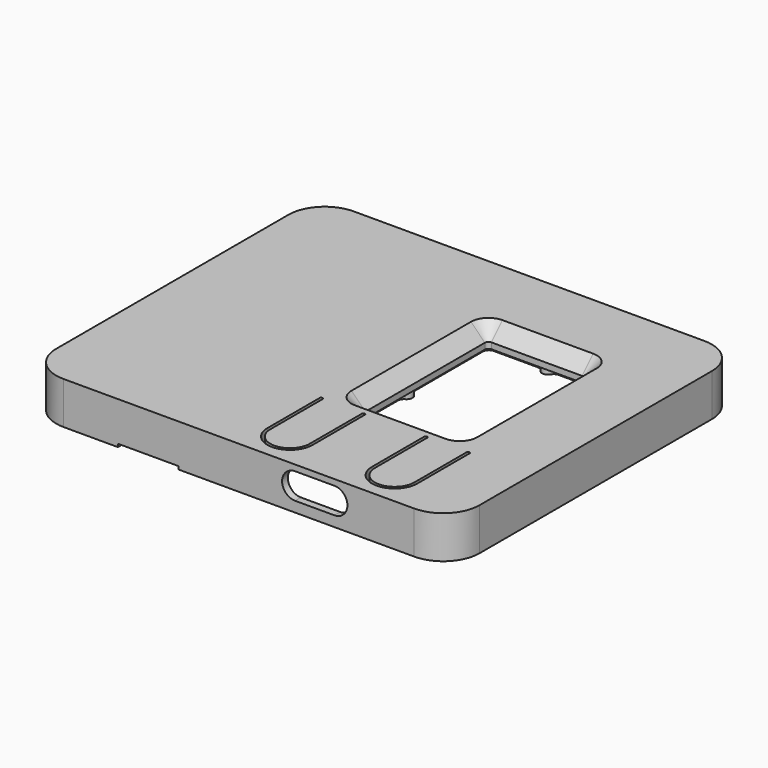
from build123d import *

# Parameters (mm, degrees)
PAD014_DEPTH           = 6
POCKET006_DEPTH        = 6.001
SKETCH032_W            = 80
SKETCH032_H            = 11
POCKET008_DEPTH        = 60.001
POCKET008_DEPTH_BACK   = 0.001
POCKET013_DEPTH        = 3.701
POCKET012_DEPTH        = 12
SKETCH043_W            = 23
SKETCH043_H            = 15
POCKET017_DEPTH        = 5.201
POCKET014_DEPTH        = 2.001
POCKET007_DEPTH        = 6.001
POCKET015_DEPTH        = 3.75
LINEARPATTERN003_COUNT = 2
LINEARPATTERN003_PITCH = 17.3
POCKET016_DEPTH        = 5.001
POCKET018_DEPTH        = 3.001
POCKET019_DEPTH        = 3.001
SKETCH059_W            = 10
SKETCH059_H            = 5
POCKET027_DEPTH        = 5


with BuildPart() as part:
    # Sketch025 → Pad014 (new body, symmetric)
    with BuildSketch(Plane.XY):
        with BuildLine():
            Line((29, 60), (-29, 60))
            ThreePointArc((-29, 60), (-33.242641, 58.242641), (-35, 54))
            Line((-35, 54), (-35, 6))
            ThreePointArc((-35, 6), (-33.242641, 1.757359), (-29, 0))
            Line((-29, 0), (29, 0))
            ThreePointArc((29, 0), (33.242641, 1.757359), (35, 6))
            Line((35, 6), (35, 54))
            ThreePointArc((35, 54), (33.242641, 58.242641), (29, 60))
        make_face()
    extrude(amount=PAD014_DEPTH, both=True)

    # Sketch030 → Pocket006 (cut, through all)
    with BuildSketch(Plane.XY):
        with BuildLine():
            Line((5, 45.95), (20, 45.95))
            ThreePointArc((20.6, 45.35), (20.424264, 45.774264), (20, 45.95))
            Line((20.6, 45.35), (20.6, 20.65))
            ThreePointArc((20, 20.05), (20.424264, 20.225736), (20.6, 20.65))
            Line((20, 20.05), (5, 20.05))
            ThreePointArc((4.4, 20.65), (4.575736, 20.225736), (5, 20.05))
            Line((4.4, 20.65), (4.4, 45.35))
            ThreePointArc((5, 45.95), (4.575736, 45.774264), (4.4, 45.35))
        make_face()
    extrude(amount=POCKET006_DEPTH, mode=Mode.SUBTRACT)

    # Sketch032 → Pocket008 (cut, two sides)
    with BuildSketch(Plane.XZ) as pocket008_sk:
        with Locations((0, -6.5)):
            Rectangle(SKETCH032_W, SKETCH032_H)
    extrude(amount=-POCKET008_DEPTH, mode=Mode.SUBTRACT)
    extrude(pocket008_sk.sketch, amount=POCKET008_DEPTH_BACK, mode=Mode.SUBTRACT)

    # SubtractivePipe001: sweep along a path in Sketch025
    with BuildLine(Plane.XY) as subtractivepipe001_path:
        Line((29, 60), (-29, 60))
        ThreePointArc((-29, 60), (-33.242641, 58.242641), (-35, 54))
        Line((-35, 54), (-35, 6))
        ThreePointArc((-35, 6), (-33.242641, 1.757359), (-29, 0))
        Line((-29, 0), (29, 0))
        ThreePointArc((29, 0), (33.242641, 1.757359), (35, 6))
        Line((35, 6), (35, 54))
        ThreePointArc((35, 54), (33.242641, 58.242641), (29, 60))
    # Sketch060 → SubtractivePipe001 (sweep, cut)
    with BuildSketch(Plane.XZ.offset(-30)):
        Polygon((34.89056, -2), (31.10944, -2), (33, 0.7), align=None)
    sweep(path=subtractivepipe001_path.line, mode=Mode.SUBTRACT)

    # Sketch038 → Pocket013 (cut, through all)
    with BuildSketch(Plane.XY.offset(2.7)):
        with BuildLine():
            ThreePointArc((11.633975, 47.8), (12.5, 47.3), (13.366025, 47.8))
            ThreePointArc((14.232051, 48.3), (13.732051, 48.166025), (13.366025, 47.8))
            Line((14.232051, 48.3), (21.5, 48.3))
            ThreePointArc((22, 46.433975), (22.465926, 47.558819), (21.5, 48.3))
            ThreePointArc((22, 46.433975), (21.5, 45.567949), (22, 44.701924))
            ThreePointArc((22.5, 43.835898), (22.366025, 44.335898), (22, 44.701924))
            Line((22.5, 19.164102), (22.5, 43.835898))
            ThreePointArc((22, 18.298076), (22.366025, 18.664102), (22.5, 19.164102))
            ThreePointArc((22, 18.298076), (21.5, 17.432051), (22, 16.566025))
            ThreePointArc((21.5, 14.7), (22.465926, 15.441181), (22, 16.566025))
            Line((14.232051, 14.7), (21.5, 14.7))
            ThreePointArc((13.366025, 15.2), (13.732051, 14.833975), (14.232051, 14.7))
            ThreePointArc((13.366025, 15.2), (12.5, 15.7), (11.633975, 15.2))
            ThreePointArc((10.767949, 14.7), (11.267949, 14.833975), (11.633975, 15.2))
            Line((3.5, 14.7), (10.767949, 14.7))
            ThreePointArc((2.5, 15.7), (2.792893, 14.992893), (3.5, 14.7))
            Line((2.5, 29.767949), (2.5, 15.7))
            ThreePointArc((3, 30.633975), (2.633975, 30.267949), (2.5, 29.767949))
            ThreePointArc((3, 30.633975), (3.5, 31.5), (3, 32.366025))
            ThreePointArc((2.5, 33.232051), (2.633975, 32.732051), (3, 32.366025))
            Line((2.5, 47.3), (2.5, 33.232051))
            ThreePointArc((3.5, 48.3), (2.792893, 48.007107), (2.5, 47.3))
            Line((3.5, 48.3), (10.767949, 48.3))
            ThreePointArc((11.633975, 47.8), (11.267949, 48.166025), (10.767949, 48.3))
        make_face()
    extrude(amount=-POCKET013_DEPTH, mode=Mode.SUBTRACT)

    # SubtractivePipe: sweep along a path in Sketch030
    with BuildLine(Plane.XY) as subtractivepipe_path:
        Line((5, 45.95), (20, 45.95))
        ThreePointArc((20, 45.95), (20.424264, 45.774264), (20.6, 45.35))
        Line((20.6, 45.35), (20.6, 20.65))
        ThreePointArc((20.6, 20.65), (20.424264, 20.225736), (20, 20.05))
        Line((20, 20.05), (5, 20.05))
        ThreePointArc((5, 20.05), (4.575736, 20.225736), (4.4, 20.65))
        Line((4.4, 20.65), (4.4, 45.35))
        ThreePointArc((4.4, 45.35), (4.575736, 45.774264), (5, 45.95))
    # Sketch039 → SubtractivePipe (sweep, cut)
    with BuildSketch(Plane.XZ.offset(-33)):
        Polygon((20.6, 3.7), (20.6, 6.7), (23.6, 6.7), align=None)
    sweep(path=subtractivepipe_path.line, mode=Mode.SUBTRACT)

    # Sketch037 → Pocket012 (cut)
    with BuildSketch(Plane.XZ):
        with BuildLine():
            ThreePointArc((9.3, 5.02), (7.15, 2.87), (9.3, 0.72))
            Line((9.3, 0.72), (15.8, 0.72))
            ThreePointArc((15.8, 0.72), (17.95, 2.87), (15.8, 5.02))
            Line((9.3, 5.02), (15.8, 5.02))
        make_face()
    extrude(amount=-POCKET012_DEPTH, mode=Mode.SUBTRACT)

    # Sketch043 → Pocket017 (cut, through all)
    with BuildSketch(Plane.XY.offset(4.2)):
        with Locations((12.5, 8.7)):
            Rectangle(SKETCH043_W, SKETCH043_H)
    extrude(amount=-POCKET017_DEPTH, mode=Mode.SUBTRACT)

    # Sketch040 → Pocket014 (cut, through all)
    with BuildSketch(Plane.XY.offset(1)):
        with BuildLine():
            Line((0, 54.3), (25.1, 54.3))
            ThreePointArc((25.9, 53.5), (25.665685, 54.065685), (25.1, 54.3))
            Line((25.9, 53.5), (25.9, 2))
            ThreePointArc((25.1, 1.2), (25.665685, 1.434315), (25.9, 2))
            Line((25.1, 1.2), (0, 1.2))
            ThreePointArc((-0.8, 2), (-0.565685, 1.434315), (0, 1.2))
            Line((-0.8, 2), (-0.8, 53.5))
            ThreePointArc((0, 54.3), (-0.565685, 54.065685), (-0.8, 53.5))
        make_face()
    extrude(amount=-POCKET014_DEPTH, mode=Mode.SUBTRACT)

    # Sketch031 → Pocket007 (cut, through all)
    with BuildSketch(Plane.XY):
        with BuildLine():
            ThreePointArc((0.65, 16.5), (0.400003, 16.75), (0.15, 16.500005))
            Line((0.15, 16.500005), (0.15, 5.7))
            ThreePointArc((0.15, 5.7), (3.9, 1.95), (7.65, 5.7))
            Line((7.65, 16.5), (7.65, 5.7))
            ThreePointArc((7.65, 16.5), (7.4, 16.75), (7.15, 16.5))
            Line((7.15, 5.7), (7.15, 16.5))
            ThreePointArc((0.65, 5.7), (3.9, 2.45), (7.15, 5.7))
            Line((0.65, 5.7), (0.65, 16.5))
        make_face()
    pocket007 = extrude(amount=POCKET007_DEPTH, mode=Mode.SUBTRACT)

    # Sketch041 → Pocket015 (cut, symmetric)
    with BuildSketch(Plane.YZ.offset(3.9)):
        with BuildLine():
            Line((1.95, 4.2), (13.91697, 4.2))
            ThreePointArc((13.91697, 4.2), (14.464692, 4.36334), (14.833485, 4.8))
            ThreePointArc((16.75, 4.4), (15.95431, 5.378906), (14.833485, 4.8))
            Line((16.75, 4.4), (16.75, 0))
            Line((16.75, 0), (1.95, 0))
            Line((1.95, 0), (1.95, 4.2))
        make_face()
    pocket015 = extrude(amount=POCKET015_DEPTH, both=True, mode=Mode.SUBTRACT)

    # LinearPattern003: Pocket007, Pocket015 ×2
    with Locations(*[(i * LINEARPATTERN003_PITCH, 0, 0) for i in range(1, LINEARPATTERN003_COUNT)]):
        add(pocket007, mode=Mode.SUBTRACT)
        add(pocket015, mode=Mode.SUBTRACT)

    # Sketch042 → Pocket016 (cut, through all)
    with BuildSketch(Plane.XY.offset(4)):
        with BuildLine():
            ThreePointArc((27, 15.35), (24, 18.35), (21, 15.35))
            Line((21, 15.35), (21, 11.85))
            ThreePointArc((21, 11.85), (24, 8.85), (27, 11.85))
            Line((27, 15.35), (27, 11.85))
        make_face()
    extrude(amount=-POCKET016_DEPTH, mode=Mode.SUBTRACT)

    # Sketch044 → Groove (revolve, cut)
    with BuildSketch(Plane.XZ.offset(-5)):
        Polygon((30, 4.5), (30.4, 4.5), (31.8, -5), (32.8, -6), (30, -6), align=None)
    revolve(axis=Axis((30, 5, 4.5), (0, 0, 1)), mode=Mode.SUBTRACT)

    # Sketch045 → Groove001 (revolve, cut)
    with BuildSketch(Plane.XZ.offset(-55)):
        Polygon((-30, 4.5), (-29.6, 4.5), (-28.2, -5), (-27.2, -6), (-30, -6), align=None)
    revolve(axis=Axis((-30, 55, 4.5), (0, 0, 1)), mode=Mode.SUBTRACT)

    # Sketch048 → Pocket018 (cut, through all)
    with BuildSketch(Plane(origin=(0, -6, 2), x_dir=(1, 0, 0), z_dir=(0, 0, 1))):
        with BuildLine():
            Line((-24.5, 63.75), (-2.5, 63.75))
            ThreePointArc((-1.5, 62.75), (-1.792893, 63.457107), (-2.5, 63.75))
            Line((-1.5, 62.75), (-1.5, 45.25))
            ThreePointArc((-2.5, 44.25), (-1.792893, 44.542893), (-1.5, 45.25))
            Line((-2.5, 44.25), (-24.5, 44.25))
            ThreePointArc((-25.5, 45.25), (-25.207107, 44.542893), (-24.5, 44.25))
            Line((-25.5, 45.25), (-25.5, 62.75))
            ThreePointArc((-24.5, 63.75), (-25.207107, 63.457107), (-25.5, 62.75))
        make_face()
    extrude(amount=-POCKET018_DEPTH, mode=Mode.SUBTRACT)

    # Sketch049 → Pocket019 (cut, through all)
    with BuildSketch(Plane(origin=(0, -6, 2), x_dir=(1, 0, 0), z_dir=(0, 0, 1))):
        with BuildLine():
            Line((-27.8, 43.5), (-2.2, 43.5))
            ThreePointArc((-1.2, 42.5), (-1.492893, 43.207107), (-2.2, 43.5))
            Line((-1.2, 42.5), (-1.2, 8.5))
            ThreePointArc((-2.2, 7.5), (-1.492893, 7.792893), (-1.2, 8.5))
            Line((-2.2, 7.5), (-27.8, 7.5))
            ThreePointArc((-28.8, 8.5), (-28.507107, 7.792893), (-27.8, 7.5))
            Line((-28.8, 8.5), (-28.8, 42.5))
            ThreePointArc((-27.8, 43.5), (-28.507107, 43.207107), (-28.8, 42.5))
        make_face()
    extrude(amount=-POCKET019_DEPTH, mode=Mode.SUBTRACT)

    # Sketch059 → Pocket027 (cut)
    with BuildSketch(Plane.XZ):
        with Locations((-15, -3)):
            Rectangle(SKETCH059_W, SKETCH059_H)
    extrude(amount=-POCKET027_DEPTH, mode=Mode.SUBTRACT)


solid = part.part
